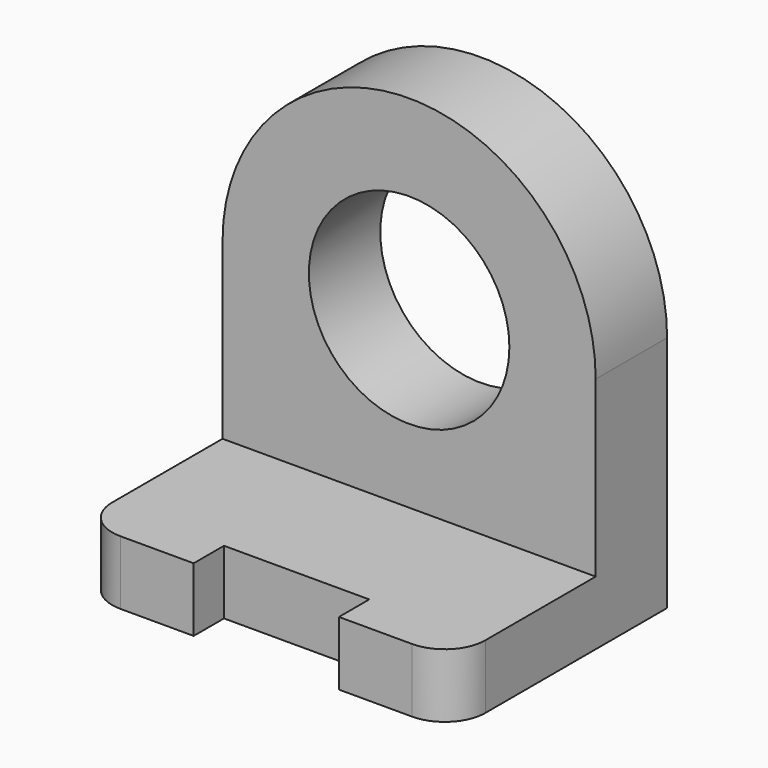
from build123d import *

# Parameters (mm, degrees)
F0_R     = 28.5304356899
F1_DEPTH = 25.4
F0_W     = 106.1744093895
F0_H     = 18.201328814
F2_DEPTH = 76.2
F4_DEPTH = 18.202328814


with BuildPart() as f1:
    # F0 (on Front) → F1 (new body)
    with BuildSketch(Plane.XZ):
        with BuildLine():
            Line((-53.0872046947, -44.3657338619), (53.0872046947, -44.3657338619))
            Line((53.0872046947, -44.3657338619), (53.0872046947, 5.1191230305))
            ThreePointArc((53.0872046947, 5.1191230305), (0, 58.2063277252), (-53.0872046947, 5.1191230305))
            Line((-53.0872046947, 5.1191230305), (-53.0872046947, -44.3657338619))
        make_face()
        with Locations((0, 5.1191230305)):
            Circle(F0_R, mode=Mode.SUBTRACT)
    extrude(amount=F1_DEPTH)

    # F0 (on Front) → F2 (join)
    with BuildSketch(Plane.XZ):
        with Locations((0, -53.4663982689)):
            Rectangle(F0_W, F0_H)
    extrude(amount=F2_DEPTH)

    # F3 (on face) → F4 (cut, through all)
    with BuildSketch(Plane.XY.offset(-44.3657338619)):
        with BuildLine():
            Line((53.0872046947, -76.2), (53.0872046947, -64.6345680475))
            ThreePointArc((53.0872046947, -64.6345680475), (49.6997681032, -72.8125634085), (41.5217727423, -76.2))
            Line((41.5217727423, -76.2), (53.0872046947, -76.2))
        make_face()
        with BuildLine():
            ThreePointArc((-41.5217727423, -76.2), (-49.6997681032, -72.8125634085), (-53.0872046947, -64.6345680475))
            Line((-53.0872046947, -64.6345680475), (-53.0872046947, -76.2))
            Line((-53.0872046947, -76.2), (-41.5217727423, -76.2))
        make_face()
        Polygon((0, -76.2), (20.6660944968, -76.2), (20.6660944968, -65.4110237956), (-20.6660944968, -65.4110237956), (-20.6660944968, -76.2), align=None)
    extrude(amount=-F4_DEPTH, mode=Mode.SUBTRACT)


solid = f1.part
